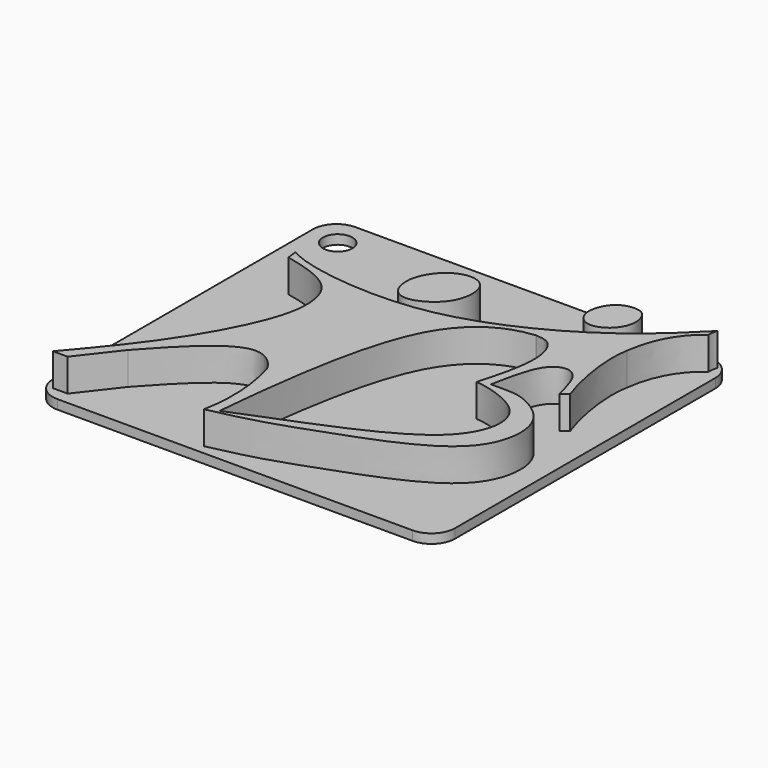
from build123d import *

# Parameters (mm, degrees)
F2_DEPTH = 3.5
F3_R     = 0.5
F4_W     = 43.3254797459
F4_H     = 40.102472201
F5_DEPTH = 1
F6_R     = 2.54
F7_R     = 1.5875
F8_DEPTH = 1.001


with BuildPart() as f2:
    # F1 (on Top) → F2 (new body)
    with BuildSketch(Plane.XY):
        with BuildLine():
            add(Edge.make_bspline(
                [(-17.4339525402, 10.3891612962), (-15.6323134553, 10.0079308799), (-12.1374402199, 9.0093816519), (-10.6919359478, 5.7963203672), (-11.0162612085, 1.3507189636), (-15.3995640473, -7.1917124281), (-19.8703347697, -12.5280161658), (-22.2338102758, -15.3087150569)],
                knots=[0, 0, 0, 0, 0.185027338, 0.324900272, 0.4885446752, 0.7346503855, 1, 1, 1, 1], degree=3))
            Line((-22.2338102758, -15.3087150569), (-20.6469583892, -15.3087150569))
            Line((-20.6469583892, -15.3087150569), (-17.4498129636, -11.1921811476))
            add(Edge.make_bspline(
                [(-17.4498129636, -11.1921811476), (-13.8443388928, -7.1938189637), (-9.1657634903, -2.5388799933), (-6.2824699242, -6.1266756704), (-6.141546648, -6.7511168309)],
                knots=[0, 0, 0, 0, 0.5476828629, 0.8411437, 0.8411437, 0.8411437, 0.8411437], degree=3))
            ThreePointArc((-6.141546648, -6.7511168309), (-5.409161203, -11.1668613275), (-5.7186982594, -15.6322140247))
            add(Edge.make_bspline(
                [(-5.7186982594, -15.6322140247), (-4.1345648834, -15.2826036519), (-0.7754448436, -14.5566042515), (5.1408747925, -12.434614726), (12.8260776584, -9.6106980275), (17.6624063976, -5.7454684251), (18.1534572055, 0.3909734442), (13.3402200524, 3.2898837323), (11.6895463163, 2.9265196946), (10.2915409952, 2.9976635706)],
                knots=[0, 0, 0, 0, 0.1366345631, 0.2916182247, 0.4683803158, 0.6178652577, 0.7578296815, 0.8902654147, 1, 1, 1, 1], degree=3))
            add(Edge.make_bspline(
                [(10.2915409952, 2.9976635706), (10.6037116769, 4.5995212016), (11.121042825, 7.2541293884), (12.3681444753, 8.9452024325), (13.7408077766, 9.3225541685), (15.0711420261, 8.4127840248), (15.5579400578, 6.4351685963), (15.8554706722, 5.2264514379)],
                knots=[0, 0, 0, 0, 0.2786092894, 0.4617130052, 0.6063354175, 0.7593924842, 1, 1, 1, 1], degree=3))
            Line((15.8554706722, 5.2264514379), (16.5946800262, 5.7591018267))
            add(Edge.make_bspline(
                [(16.5946800262, 5.7591018267), (15.6030077487, 8.4872478619), (14.9414511397, 12.4320834875), (15.3824891895, 14.9067947641)],
                knots=[0, 0, 0, 0, 9.2276591128, 9.2276591128, 9.2276591128, 9.2276591128], degree=3))
            add(Edge.make_bspline(
                [(15.3824891895, 14.9067947641), (15.9950405359, 19.488684833), (18.4942539781, 21.0568197072), (18.9352910966, 21.4488524944)],
                knots=[0, 0, 0, 0, 7.4445228683, 7.4445228683, 7.4445228683, 7.4445228683], degree=3))
            ThreePointArc((18.9352910966, 21.4488524944), (18.9723816979, 21.9658475756), (19.0916694701, 22.4702581763))
            add(Edge.make_bspline(
                [(19.0916694701, 22.4702581763), (17.1391241227, 20.5266388949), (12.3113934749, 15.7685533475), (-1.6381812303, 8.6145801304), (-14.484715583, 10.0543976299), (-16.8350384415, 11.1262385256), (-17.5760388374, 11.4835882559)],
                knots=[0, 0, 0, 0, 0.2476986843, 0.5720215474, 0.8582703215, 1, 1, 1, 1], degree=3))
            Line((-17.5760388374, 11.4835882559), (-17.4339525402, 10.3891612962))
        make_face()
        with BuildLine():
            add(Edge.make_bspline(
                [(7.6939919963, 12.3298484832), (6.0740151322, 12.1584455461), (3.2156512661, 11.1929585752), (-1.9015256855, 5.7143098104), (-3.7579613272, -6.6987425089), (-4.5002130792, -15.0309447199)],
                knots=[0, 0, 0, 0, 0.2262804636, 0.5003950599, 1, 1, 1, 1], degree=3))
            add(Edge.make_bspline(
                [(7.6939919963, 12.3298484832), (8.2357878891, 12.2796959469), (9.5447593938, 12.1698241039), (10.7343592641, 9.0033330286), (9.5166533517, 4.1128592846), (9.1828305335, 2.9642551286), (9.0727172792, 2.5556944311)],
                knots=[0, 0, 0, 0, 0.1945387115, 0.4614244984, 0.8083680191, 1, 1, 1, 1], degree=3))
            add(Edge.make_bspline(
                [(-4.5002130792, -15.0309447199), (2.8558875463, -12.0265206408), (14.0170136994, -8.2209898174), (15.9570611629, -1.0495553897), (13.2537960098, 1.6836264039), (9.9532447133, 2.5335151768), (9.0727172792, 2.5556944311)],
                knots=[0, 0, 0, 0, 0.4192181319, 0.637329332, 0.8110754178, 1, 1, 1, 1], degree=3))
        make_face(mode=Mode.SUBTRACT)
    extrude(amount=F2_DEPTH)

    # F3
    f3_edges = [f2.edges().sort_by_distance(p)[0] for p in [
        (-6.141547, -6.751117, 1.75),
        (-17.449813, -11.192181, 1.75),
        (15.382489, 14.906795, 1.75),
        (7.693992, 12.329848, 1.75),
    ]]
    fillet(f3_edges, radius=F3_R)



with BuildPart() as f2b:
    # F1 (on Top) → F2, piece 2 (new body)
    with BuildSketch(Plane.XY):
        with BuildLine():
            add(Edge.make_bspline(
                [(-2.8614087496, 17.1973500401), (-3.5556827087, 17.3241178573), (-5.389562243, 16.9260826716), (-7.5579403377, 13.7810404975), (-6.1730432105, 9.7854532262), (-1.2338013156, 12.1222002182), (-1.0195955001, 16.2585104895), (-2.2563645744, 17.0868747322), (-2.8614087496, 17.1973500401)],
                knots=[0, 0, 0, 0, 0.1468456921, 0.3287854481, 0.4942794947, 0.6898238724, 0.8720272747, 1, 1, 1, 1], degree=3))
        make_face()
    extrude(amount=F2_DEPTH)


with BuildPart() as f2c:
    # F1 (on Top) → F2, piece 3 (new body)
    with BuildSketch(Plane.XY):
        with BuildLine():
            add(Edge.make_bspline(
                [(11.4053785801, 21.3338844478), (10.8683124765, 21.4194626671), (9.2108684467, 21.2220414162), (7.9274955836, 18.4060915248), (9.3705188647, 16.265499475), (11.968032939, 17.0575573748), (12.9838664362, 19.2512490076), (12.4013006367, 20.9285062202), (11.7918199931, 21.2723073575), (11.4053785801, 21.3338844478)],
                knots=[0, 0, 0, 0, 0.1436178381, 0.3130615334, 0.4588254509, 0.6129292342, 0.7674481338, 0.8966609884, 1, 1, 1, 1], degree=3))
        make_face()
    extrude(amount=F2_DEPTH)


with BuildPart() as f2_1:
    add(f2.part)

    add(f2b.part)  # F5 merges F2b

    add(f2c.part)  # F5 merges F2c
    # F4 (on face) → F5 (join)
    with BuildSketch(Plane(origin=(0, 0, 0), x_dir=(1, 0, 0), z_dir=(0, 0, -1))):
        with Locations((-1.5710704029, -3.4190220758)):
            Rectangle(F4_W, F4_H)
    extrude(amount=F5_DEPTH)

    # F6
    f6_edges = [f2_1.edges().sort_by_distance(p)[0] for p in [
        (20.091669, -16.632214, -0.5),
        (20.091669, 23.470258, -0.5),
        (-23.23381, -16.632214, -0.5),
        (-23.23381, 23.470258, -0.5),
    ]]
    fillet(f6_edges, radius=F6_R)

    # F7 (on face) → F8 (cut, through all)
    with BuildSketch(Plane.XY):
        with Locations((-20.0588102758, 20.2952581763)):
            Circle(F7_R)
    extrude(amount=-F8_DEPTH, mode=Mode.SUBTRACT)


solid = f2_1.part
